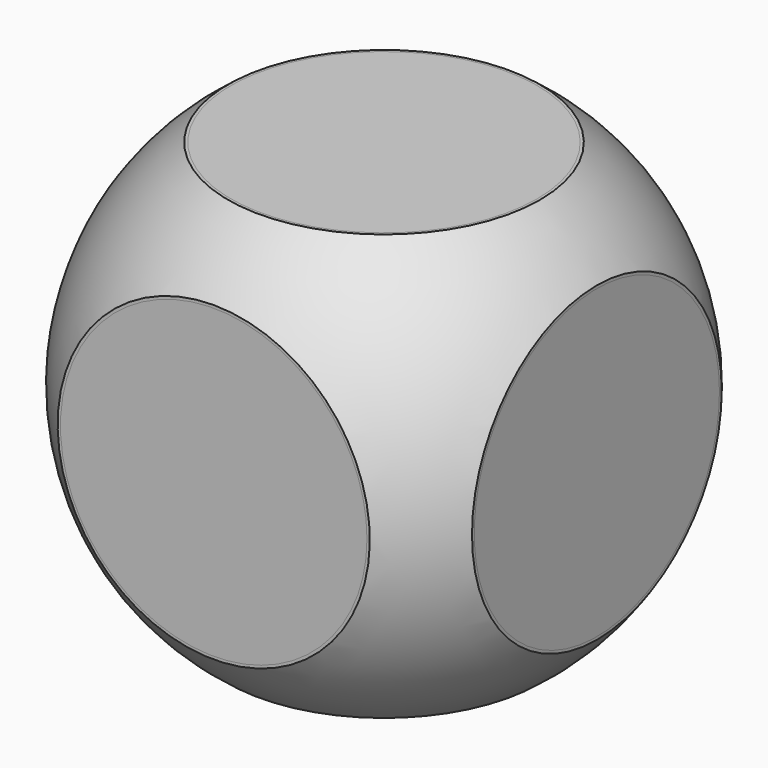
from build123d import *

# Parameters (mm, degrees)
BOX_W             = 10
BOX_H             = 10
BOX_DEPTH         = 10
FILLET_R          = 1
CYLINDER012_R     = 0.5
CYLINDER012_DEPTH = 5
CYLINDER011_R     = 0.5
CYLINDER011_DEPTH = 5
CYLINDER010_R     = 0.5
CYLINDER010_DEPTH = 5
CYLINDER009_R     = 0.5
CYLINDER009_DEPTH = 5
CYLINDER013_R     = 0.5
CYLINDER013_DEPTH = 5
CYLINDER001_R     = 3.6
CYLINDER001_DEPTH = 10
CYLINDER002_R     = 3.6
CYLINDER002_DEPTH = 10
CYLINDER_R        = 3.6
CYLINDER_DEPTH    = 10
CYLINDER015_R     = 0.5
CYLINDER015_DEPTH = 5
CYLINDER016_R     = 0.5
CYLINDER016_DEPTH = 5
CYLINDER017_R     = 0.5
CYLINDER017_DEPTH = 5
CYLINDER018_R     = 0.5
CYLINDER018_DEPTH = 5
CYLINDER019_R     = 0.5
CYLINDER019_DEPTH = 5
CYLINDER014_R     = 0.5
CYLINDER014_DEPTH = 5
CYLINDER007_R     = 0.5
CYLINDER007_DEPTH = 5
CYLINDER006_R     = 0.5
CYLINDER006_DEPTH = 5
CYLINDER008_R     = 0.5
CYLINDER008_DEPTH = 5
CYLINDER003_R     = 0.5
CYLINDER003_DEPTH = 5
CYLINDER005_R     = 0.5
CYLINDER005_DEPTH = 5
CYLINDER004_R     = 0.5
CYLINDER004_DEPTH = 5
CYLINDER021_R     = 0.5
CYLINDER021_DEPTH = 5
CYLINDER022_R     = 0.5
CYLINDER022_DEPTH = 5
CYLINDER023_R     = 0.5
CYLINDER023_DEPTH = 5
CYLINDER020_R     = 0.5
CYLINDER020_DEPTH = 5


with BuildPart() as fillet_body:
    # Box → Box (new body)
    with BuildSketch(Plane(origin=(-5, -6, -4), x_dir=(1, 0, 0), z_dir=(0, 0, 1))):
        with Locations((5, 5)):
            Rectangle(BOX_W, BOX_H)
    extrude(amount=BOX_DEPTH)

    # Fillet
    fillet_edges = [fillet_body.edges().sort_by_distance(p)[0] for p in [
        (-5, -6, 1),
        (-5, -1, 6),
        (5, -6, 1),
        (5, -1, 6),
        (5, 4, 1),
        (5, -1, -4),
        (0, -6, -4),
        (0, -6, 6),
        (0, 4, 6),
    ]]
    fillet(fillet_edges, radius=FILLET_R)


with BuildPart() as fillet_body_1:
    # Fillet placement: moved
    add(fillet_body.part.moved(Location((0, 1, 0))))


with BuildPart() as common:
    # Sphere → Sphere (revolve)
    with BuildSketch(Plane(origin=(0, 0, 1), x_dir=(1, 0, 0), z_dir=(0, -1, 0))):
        with BuildLine():
            ThreePointArc((0, -6.2), (6.2, 0), (0, 6.2))
            Line((0, 6.2), (0, -6.2))
        make_face()
    revolve(axis=Axis((0, 0, 1), (0, 0, 1)))

    # Common: intersect Fillet body
    add(fillet_body_1.part, mode=Mode.INTERSECT)


with BuildPart() as cylinder012:
    # Cylinder012 → Cylinder012 (new body)
    with BuildSketch(Plane(origin=(3, 2, -1), x_dir=(0, 1, 0), z_dir=(1, 0, 0))):
        Circle(CYLINDER012_R)
    extrude(amount=CYLINDER012_DEPTH)


with BuildPart() as cylinder011:
    # Cylinder011 → Cylinder011 (new body)
    with BuildSketch(Plane(origin=(3, 2, 3), x_dir=(0, 1, 0), z_dir=(1, 0, 0))):
        Circle(CYLINDER011_R)
    extrude(amount=CYLINDER011_DEPTH)


with BuildPart() as cylinder010:
    # Cylinder010 → Cylinder010 (new body)
    with BuildSketch(Plane(origin=(3, -2, -1), x_dir=(0, 1, 0), z_dir=(1, 0, 0))):
        Circle(CYLINDER010_R)
    extrude(amount=CYLINDER010_DEPTH)


with BuildPart() as cylinder009:
    # Cylinder009 → Cylinder009 (new body)
    with BuildSketch(Plane(origin=(3, -2, 3), x_dir=(0, 1, 0), z_dir=(1, 0, 0))):
        Circle(CYLINDER009_R)
    extrude(amount=CYLINDER009_DEPTH)


with BuildPart() as fusion001:
    # Cylinder013 → Cylinder013 (new body)
    with BuildSketch(Plane(origin=(2, 0, 1), x_dir=(0, 1, 0), z_dir=(1, 0, 0))):
        Circle(CYLINDER013_R)
    extrude(amount=CYLINDER013_DEPTH)

    # Fusion001: union Cylinder012, Cylinder011, Cylinder010, Cylinder009
    add(cylinder012.part)
    add(cylinder011.part)
    add(cylinder010.part)
    add(cylinder009.part)


with BuildPart() as cylinder001:
    # Cylinder001 → Cylinder001 (new body)
    with BuildSketch(Plane(origin=(0, 5, 1), x_dir=(1, 0, 0), z_dir=(0, -1, 0))):
        Circle(CYLINDER001_R)
    extrude(amount=CYLINDER001_DEPTH)


with BuildPart() as cylinder002:
    # Cylinder002 → Cylinder002 (new body)
    with BuildSketch(Plane(origin=(-5, 0, 1), x_dir=(0, 1, 0), z_dir=(1, 0, 0))):
        Circle(CYLINDER002_R)
    extrude(amount=CYLINDER002_DEPTH)


with BuildPart() as fusion:
    # Cylinder → Cylinder (new body)
    with BuildSketch(Plane.XY.offset(-4)):
        Circle(CYLINDER_R)
    extrude(amount=CYLINDER_DEPTH)

    # Fusion: union Cylinder001, Cylinder002
    add(cylinder001.part)
    add(cylinder002.part)


with BuildPart() as cut:
    # Cut base: copy of Fusion
    add(fusion.part)

    # Cut: cut Fusion001
    add(fusion001.part, mode=Mode.SUBTRACT)


with BuildPart() as cylinder015:
    # Cylinder015 → Cylinder015 (new body)
    with BuildSketch(Plane(origin=(-2, 0, -1), x_dir=(1, 0, 0), z_dir=(0, 0, -1))):
        Circle(CYLINDER015_R)
    extrude(amount=CYLINDER015_DEPTH)


with BuildPart() as cylinder016:
    # Cylinder016 → Cylinder016 (new body)
    with BuildSketch(Plane(origin=(-2, 2, -1), x_dir=(1, 0, 0), z_dir=(0, 0, -1))):
        Circle(CYLINDER016_R)
    extrude(amount=CYLINDER016_DEPTH)


with BuildPart() as cylinder017:
    # Cylinder017 → Cylinder017 (new body)
    with BuildSketch(Plane(origin=(2, 2, -1), x_dir=(1, 0, 0), z_dir=(0, 0, -1))):
        Circle(CYLINDER017_R)
    extrude(amount=CYLINDER017_DEPTH)


with BuildPart() as cylinder018:
    # Cylinder018 → Cylinder018 (new body)
    with BuildSketch(Plane(origin=(2, 0, -1), x_dir=(1, 0, 0), z_dir=(0, 0, -1))):
        Circle(CYLINDER018_R)
    extrude(amount=CYLINDER018_DEPTH)


with BuildPart() as cylinder019:
    # Cylinder019 → Cylinder019 (new body)
    with BuildSketch(Plane(origin=(2, -2, -1), x_dir=(1, 0, 0), z_dir=(0, 0, -1))):
        Circle(CYLINDER019_R)
    extrude(amount=CYLINDER019_DEPTH)


with BuildPart() as fusion003:
    # Cylinder014 → Cylinder014 (new body)
    with BuildSketch(Plane(origin=(-2, -2, -1), x_dir=(1, 0, 0), z_dir=(0, 0, -1))):
        Circle(CYLINDER014_R)
    extrude(amount=CYLINDER014_DEPTH)

    # Fusion003: union Cylinder015, Cylinder016, Cylinder017, Cylinder018, Cylinder019
    add(cylinder015.part)
    add(cylinder016.part)
    add(cylinder017.part)
    add(cylinder018.part)
    add(cylinder019.part)


with BuildPart() as cut001:
    # Cut001 base: copy of Fusion
    add(fusion.part)

    # Cut001: cut Fusion003
    add(fusion003.part, mode=Mode.SUBTRACT)


with BuildPart() as cylinder007:
    # Cylinder007 → Cylinder007 (new body)
    with BuildSketch(Plane(origin=(-3, 0, 1), x_dir=(0, -1, 0), z_dir=(-1, 0, 0))):
        Circle(CYLINDER007_R)
    extrude(amount=CYLINDER007_DEPTH)


with BuildPart() as cylinder006:
    # Cylinder006 → Cylinder006 (new body)
    with BuildSketch(Plane(origin=(-3, -1, 3), x_dir=(0, -1, 0), z_dir=(-1, 0, 0))):
        Circle(CYLINDER006_R)
    extrude(amount=CYLINDER006_DEPTH)


with BuildPart() as fusion002:
    # Cylinder008 → Cylinder008 (new body)
    with BuildSketch(Plane(origin=(-3, 1, -1), x_dir=(0, -1, 0), z_dir=(-1, 0, 0))):
        Circle(CYLINDER008_R)
    extrude(amount=CYLINDER008_DEPTH)

    # Fusion002: union Cylinder007, Cylinder006
    add(cylinder007.part)
    add(cylinder006.part)


with BuildPart() as cut002:
    # Cut002 base: copy of Fusion
    add(fusion.part)

    # Cut002: cut Fusion002
    add(fusion002.part, mode=Mode.SUBTRACT)


with BuildPart() as cylinder003:
    # Cylinder003 → Cylinder003 (new body)
    with BuildSketch(Plane.XY.offset(3)):
        Circle(CYLINDER003_R)
    extrude(amount=CYLINDER003_DEPTH)


with BuildPart() as cut003:
    # Cut003 base: copy of Fusion
    add(fusion.part)

    # Cut003: cut Cylinder003
    add(cylinder003.part, mode=Mode.SUBTRACT)


with BuildPart() as cylinder005:
    # Cylinder005 → Cylinder005 (new body)
    with BuildSketch(Plane(origin=(0, -3, -1), x_dir=(1, 0, 0), z_dir=(0, -1, 0))):
        Circle(CYLINDER005_R)
    extrude(amount=CYLINDER005_DEPTH)


with BuildPart() as fusion004:
    # Cylinder004 → Cylinder004 (new body)
    with BuildSketch(Plane(origin=(0, -3, 3), x_dir=(1, 0, 0), z_dir=(0, -1, 0))):
        Circle(CYLINDER004_R)
    extrude(amount=CYLINDER004_DEPTH)

    # Fusion004: union Cylinder005
    add(cylinder005.part)


with BuildPart() as cut004:
    # Cut004 base: copy of Fusion
    add(fusion.part)

    # Cut004: cut Fusion004
    add(fusion004.part, mode=Mode.SUBTRACT)


with BuildPart() as cylinder021:
    # Cylinder021 → Cylinder021 (new body)
    with BuildSketch(Plane(origin=(-2, 3, 3), x_dir=(1, 0, 0), z_dir=(0, 1, 0))):
        Circle(CYLINDER021_R)
    extrude(amount=CYLINDER021_DEPTH)


with BuildPart() as cylinder022:
    # Cylinder022 → Cylinder022 (new body)
    with BuildSketch(Plane(origin=(-2, 3, -1), x_dir=(1, 0, 0), z_dir=(0, 1, 0))):
        Circle(CYLINDER022_R)
    extrude(amount=CYLINDER022_DEPTH)


with BuildPart() as cylinder023:
    # Cylinder023 → Cylinder023 (new body)
    with BuildSketch(Plane(origin=(2, 3, -1), x_dir=(1, 0, 0), z_dir=(0, 1, 0))):
        Circle(CYLINDER023_R)
    extrude(amount=CYLINDER023_DEPTH)


with BuildPart() as fusion005:
    # Cylinder020 → Cylinder020 (new body)
    with BuildSketch(Plane(origin=(2, 3, 3), x_dir=(1, 0, 0), z_dir=(0, 1, 0))):
        Circle(CYLINDER020_R)
    extrude(amount=CYLINDER020_DEPTH)

    # Fusion005: union Cylinder021, Cylinder022, Cylinder023
    add(cylinder021.part)
    add(cylinder022.part)
    add(cylinder023.part)


with BuildPart() as cut005:
    # Cut005 base: copy of Fusion
    add(fusion.part)

    # Cut005: cut Fusion005
    add(fusion005.part, mode=Mode.SUBTRACT)


solid = Compound([common.part, cut.part, cut001.part, cut002.part, cut003.part, cut004.part, cut005.part])
